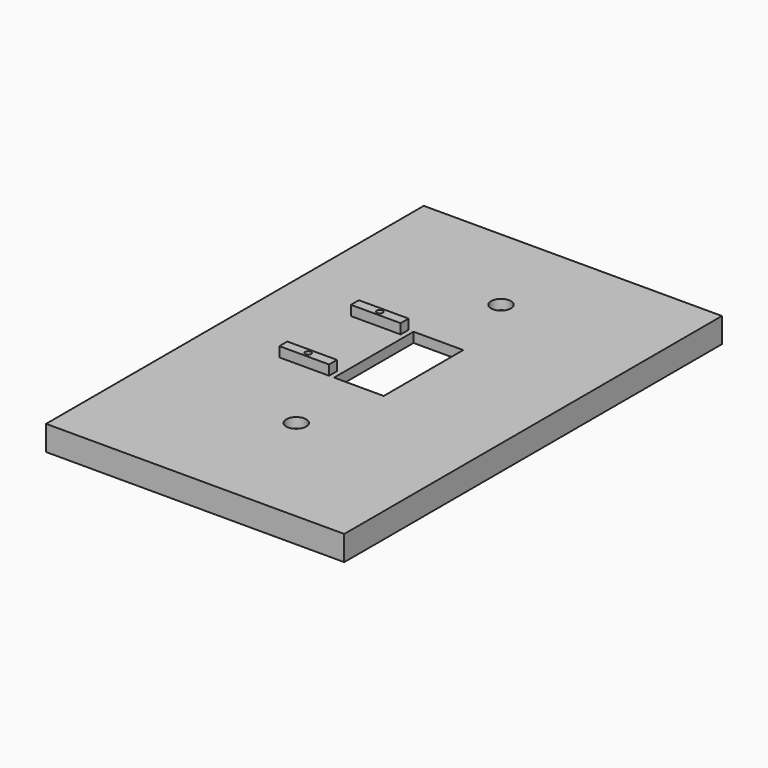
from build123d import *

# Parameters (mm, degrees)
F0_W      = 76.2
F0_H      = 120.65
F1_DEPTH  = 6.35
F2_W      = 12.7
F2_H      = 25.4
F3_DEPTH  = 6.35
F4_R      = 2.54
F5_DEPTH  = 6.35
F6_W      = 12.7
F6_H      = 2.54
F7_DEPTH  = 2.54
F8_R      = 0.762
F9_R      = 0.762
F10_DEPTH = 11.938
F11_W     = 66.04
F11_H     = 110.49
F12_DEPTH = 3.81


with BuildPart() as f1:
    # F0 (on Top) → F1 (new body)
    with BuildSketch(Plane.XY):
        with Locations((-0.644507, -3.87145)):
            Rectangle(F0_W, F0_H)
    extrude(amount=F1_DEPTH)

    # F2 (on face) → F3 (cut)
    with BuildSketch(Plane.XY.offset(6.35)):
        Rectangle(F2_W, F2_H)
    extrude(amount=-F3_DEPTH, mode=Mode.SUBTRACT)

    # F4 (on face) → F5 (cut)
    with BuildSketch(Plane.XY.offset(6.35)):
        with Locations((0, -32.7025)):
            Circle(F4_R)
        with Locations((0, 32.7025)):
            Circle(F4_R)
    extrude(amount=-F5_DEPTH, mode=Mode.SUBTRACT)

    # F6 (on face) → F7 (join)
    with BuildSketch(Plane.XY.offset(6.35)):
        with Locations((-13.97, 11.43)):
            Rectangle(F6_W, F6_H)
        with Locations((-13.97, -11.43)):
            Rectangle(F6_W, F6_H)
    extrude(amount=F7_DEPTH)

    # F8 (on face) + F9 (on face) → F10 (cut)
    with BuildSketch(Plane.XY.offset(8.89)):
        with Locations((-13.97, 11.43)):
            Circle(F8_R)
    with BuildSketch(Plane.XY.offset(8.89)):
        with Locations((-13.97, -11.43)):
            Circle(F9_R)
    extrude(amount=-F10_DEPTH, mode=Mode.SUBTRACT)

    # F11 (on face) → F12 (cut)
    with BuildSketch(Plane(origin=(0, 0, 0), x_dir=(1, 0, 0), z_dir=(0, 0, -1))):
        with Locations((-0.644507, 3.87145)):
            Rectangle(F11_W, F11_H)
    extrude(amount=-F12_DEPTH, mode=Mode.SUBTRACT)


solid = f1.part
